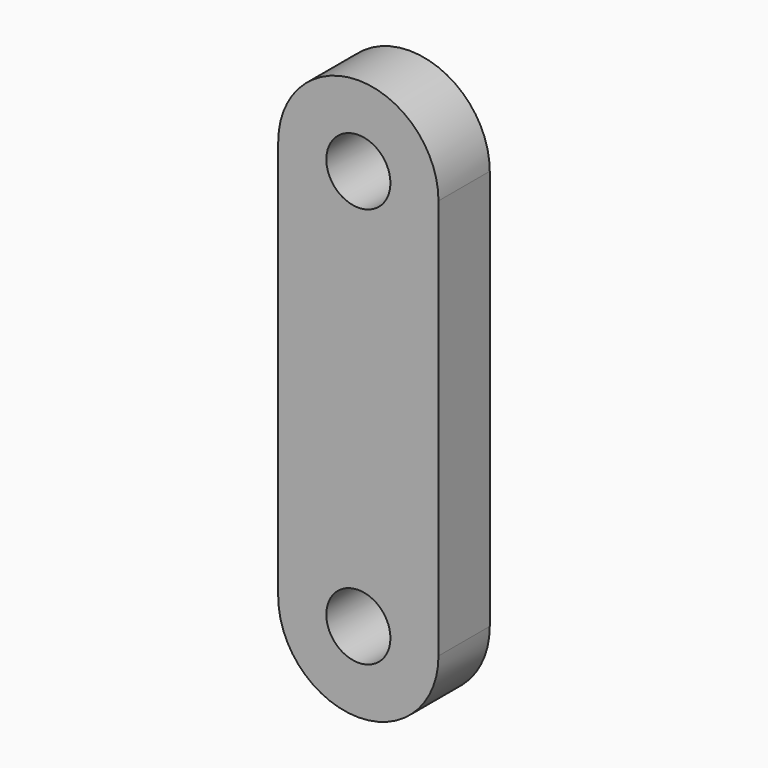
from build123d import *

# Parameters (mm, degrees)
F0_R     = 4
F1_DEPTH = 8


with BuildPart() as f1:
    # F0 (on Front) → F1 (new body)
    with BuildSketch(Plane.XZ):
        with BuildLine():
            ThreePointArc((-10, 0), (0, -10), (10, 0))
            ThreePointArc((10, 0), (0, 10), (-10, 0))
        make_face()
        Circle(F0_R, mode=Mode.SUBTRACT)
        with BuildLine():
            ThreePointArc((-10, 0), (0, 10), (10, 0))
            Line((10, 0), (10, 50))
            ThreePointArc((10, 50), (0, 40), (-10, 50))
            Line((-10, 50), (-10, 0))
        make_face()
        with BuildLine():
            ThreePointArc((-10, 50), (0, 40), (10, 50))
            ThreePointArc((10, 50), (0, 60), (-10, 50))
        make_face()
        with Locations((0, 50)):
            Circle(F0_R, mode=Mode.SUBTRACT)
    extrude(amount=F1_DEPTH)


solid = f1.part
